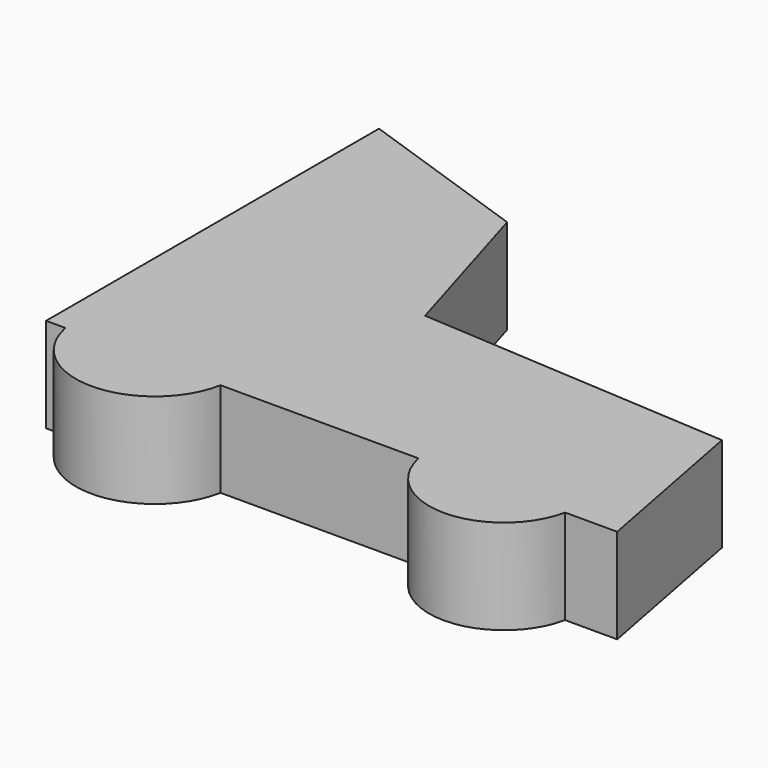
from build123d import *

# Parameters (mm, degrees)
F1_DEPTH = 25.4
F2_R     = 21.149451
F2_R_2   = 20.076598
F3_DEPTH = 25.4


with BuildPart() as f1:
    # F0 (on Top) → F1 (new body)
    with BuildSketch(Plane.XY):
        Polygon((-75.755887, 36.15994), (-75.755887, -75.42865), (77.392094, -75.42865), (68.556629, -29.287914), (-15.216626, -24.052085), (-28.306197, 19.797975), align=None)
    extrude(amount=F1_DEPTH)

    # F2 (on Top) → F3 (join)
    with BuildSketch(Plane.XY):
        with Locations((-49.765799, -71.501784)):
            Circle(F2_R)
        with Locations((43.749049, -71.333706)):
            Circle(F2_R_2)
    extrude(amount=F3_DEPTH)


solid = f1.part
